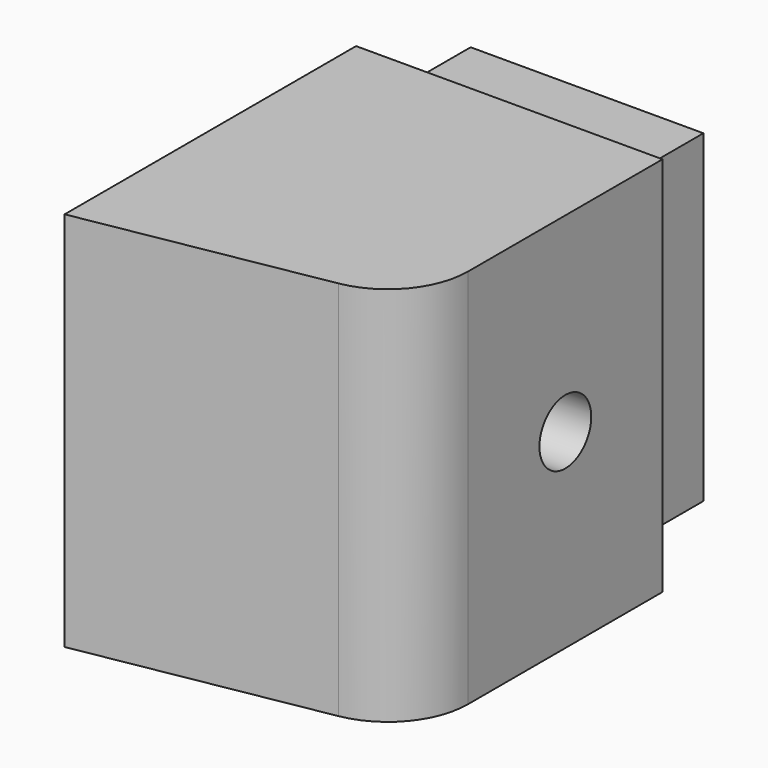
from build123d import *

# Parameters (mm, degrees)
PAD_DEPTH       = 9.41
SKETCH001_W     = 9
SKETCH001_H     = 14
POCKET_DEPTH    = 12
POCKET001_DEPTH = 14
SKETCH003_W     = 11.5
SKETCH003_H     = 16
SKETCH003_W_2   = 9
SKETCH003_H_2   = 14
PAD001_DEPTH    = 4.8
SKETCH004_R     = 1.6
POCKET002_DEPTH = 15.141


with BuildPart() as part:
    # Sketch → Pad (new body, symmetric)
    with BuildSketch(Plane.XY):
        with BuildLine():
            Line((-7.57, 12), (7.57, 12))
            Line((7.57, 12), (7.57, 0))
            ThreePointArc((4.290187, -3.908729), (6.641424, -2.551242), (7.57, 0))
            Line((-7.57, -6), (4.290187, -3.908729))
            Line((-7.57, 0), (-7.57, -6))
            Line((-7.57, 0), (-7.57, 12))
        make_face()
    extrude(amount=PAD_DEPTH, both=True)

    # Sketch001 (on Face1 of Pad) → Pocket (cut)
    with BuildSketch(Plane(origin=(0, 12, 0), x_dir=(-1, 0, 0), z_dir=(0, 1, 0))):
        Rectangle(SKETCH001_W, SKETCH001_H)
    extrude(amount=-POCKET_DEPTH, mode=Mode.SUBTRACT)

    # Sketch002 (on Face7 of Pocket) → Pocket001 (cut)
    with BuildSketch(Plane.XY.offset(-7)):
        with BuildLine():
            Line((-4.5, 0), (-7.57, -0.541324))
            Line((-7.57, -0.541324), (-7.57, -4.5))
            Line((-7.57, -4.5), (2.164299, -2.783581))
            ThreePointArc((2.164299, -2.783581), (3.83872, -1.816853), (4.5, 0))
            Line((-4.5, 0), (4.5, 0))
        make_face()
    extrude(amount=POCKET001_DEPTH, mode=Mode.SUBTRACT)

    # Sketch003 (on Face1 of Pocket001) → Pad001 (join)
    with BuildSketch(Plane(origin=(0, 12, 0), x_dir=(-1, 0, 0), z_dir=(0, 1, 0))):
        Rectangle(SKETCH003_W, SKETCH003_H)
        Rectangle(SKETCH003_W_2, SKETCH003_H_2, mode=Mode.SUBTRACT)
    extrude(amount=PAD001_DEPTH)

    # Sketch004 (on Face2 of Pad001) → Pocket002 (cut, through all)
    with BuildSketch(Plane(origin=(-7.57, 0, 0), x_dir=(0, -1, 0), z_dir=(-1, 0, 0))):
        with Locations((-6, 0)):
            Circle(SKETCH004_R)
    extrude(amount=-POCKET002_DEPTH, mode=Mode.SUBTRACT)


solid = part.part
